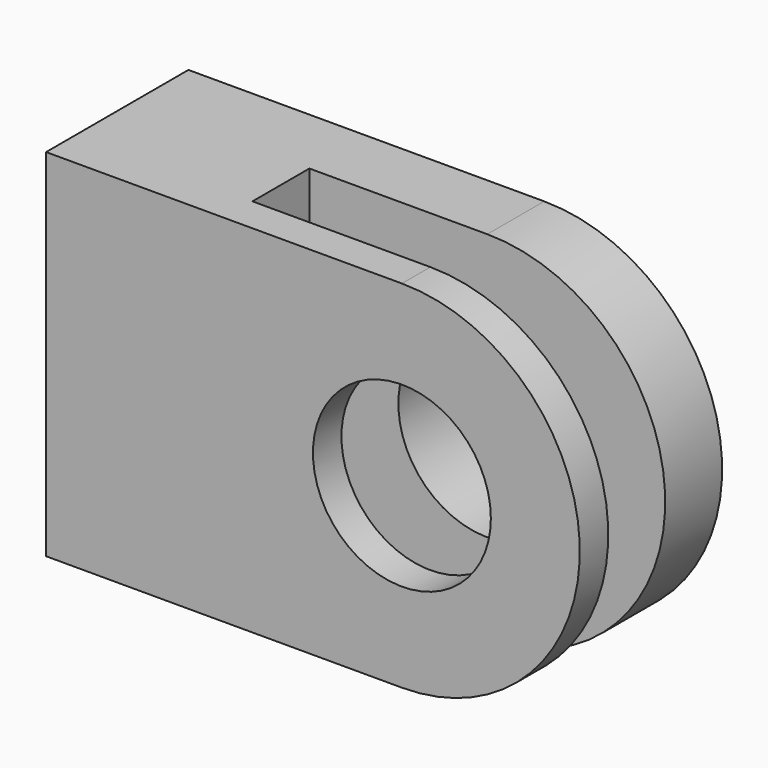
from build123d import *

# Parameters (mm, degrees)
F0_R     = 25
F1_DEPTH = 20
F3_R     = 25
F4_DEPTH = 10
F5_W     = 50
F5_H     = 100
F6_DEPTH = 20


with BuildPart() as f1:
    # F0 (on Front) → F1 (new body)
    with BuildSketch(Plane.XZ):
        with BuildLine():
            Line((-100, -50), (0, -50))
            ThreePointArc((0, -50), (50, 0), (0, 50))
            Line((0, 50), (-100, 50))
            Line((-100, 50), (-100, -50))
        make_face()
        Circle(F0_R, mode=Mode.SUBTRACT)
    extrude(amount=F1_DEPTH)



with BuildPart() as f4:
    # F3 (on offset) → F4 (new body)
    with BuildSketch(Plane.XZ.offset(40)):
        with BuildLine():
            Line((-100, 50), (-100, -50))
            Line((-100, -50), (0, -50))
            ThreePointArc((0, -50), (50, 0), (0, 50))
            Line((0, 50), (-100, 50))
        make_face()
        Circle(F3_R, mode=Mode.SUBTRACT)
    extrude(amount=F4_DEPTH)


with BuildPart() as f1_1:
    add(f1.part)

    add(f4.part)  # F6 merges F4
    # F5 (on face) → F6 (join, through all)
    with BuildSketch(Plane.XZ.offset(20)):
        with Locations((-75, 0)):
            Rectangle(F5_W, F5_H)
    extrude(amount=F6_DEPTH)


solid = f1_1.part
